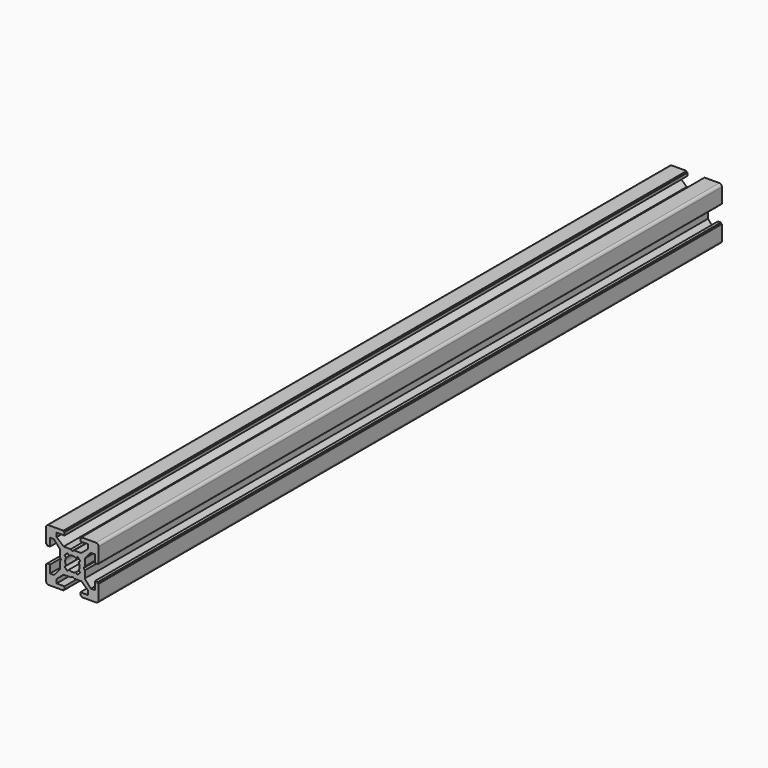
from build123d import *

# Parameters (mm, degrees)
PAD001008_DEPTH       = 296
POCKET021004_DEPTH    = 296
POLARPATTERN002_COUNT = 4
POCKET021005_DEPTH    = 296


with BuildPart() as part:
    # Sketch043 → Pad001008 (new body)
    with BuildSketch(Plane.XZ):
        with BuildLine():
            Line((-9, 10), (9, 10))
            ThreePointArc((10, 9), (9.707107, 9.707107), (9, 10))
            Line((10, 9), (10, -9))
            ThreePointArc((9, -10), (9.707107, -9.707107), (10, -9))
            Line((9, -10), (-9, -10))
            ThreePointArc((-10, -9), (-9.707107, -9.707107), (-9, -10))
            Line((-10, -9), (-10, 9))
            ThreePointArc((-9, 10), (-9.707107, 9.707107), (-10, 9))
        make_face()
    extrude(amount=PAD001008_DEPTH)

    # Sketch042 (on Face10 of Pad001008) → Pocket021004 (cut)
    with BuildSketch(Plane.XZ.offset(296)):
        Polygon((-3.4, 10), (-3.4, 9.6), (-3, 9.6), (-3, 8.5), (-6, 8.5), (-6, 7), (-3.35, 4.7), (-0.65, 4.7), (0, 4.3), (0.65, 4.7), (3.35, 4.7), (6, 7), (6, 8.5), (3, 8.5), (3, 9.6), (3.4, 9.6), (3.4, 10), align=None)
    pocket021004 = extrude(amount=-POCKET021004_DEPTH, mode=Mode.SUBTRACT)

    # PolarPattern002: Pocket021004 ×4 about axis
    polarpattern002_axis = Axis((0, -296, 0), (0, -1, 0))
    for i in range(1, POLARPATTERN002_COUNT):
        add(pocket021004.rotate(polarpattern002_axis, i * 360 / POLARPATTERN002_COUNT), mode=Mode.SUBTRACT)

    # Sketch041 (on Face4 of PolarPattern002) → Pocket021005 (cut)
    with BuildSketch(Plane.XZ.offset(296)):
        with BuildLine():
            ThreePointArc((1.340499, 2.401159), (0, 2.75), (-1.340499, 2.401159))
            Line((-1.944544, 3.005204), (-1.340499, 2.401159))
            Line((-3.005204, 1.944544), (-1.944544, 3.005204))
            Line((-2.401159, 1.340499), (-3.005204, 1.944544))
            ThreePointArc((-2.401159, 1.340499), (-2.75, 0), (-2.401159, -1.340499))
            Line((-3.005204, -1.944544), (-2.401159, -1.340499))
            Line((-1.944544, -3.005204), (-3.005204, -1.944544))
            Line((-1.340499, -2.401159), (-1.944544, -3.005204))
            ThreePointArc((-1.340499, -2.401159), (0, -2.75), (1.340499, -2.401159))
            Line((1.944544, -3.005204), (1.340499, -2.401159))
            Line((3.005204, -1.944544), (1.944544, -3.005204))
            Line((2.401159, -1.340499), (3.005204, -1.944544))
            ThreePointArc((2.401159, -1.340499), (2.75, 0), (2.401159, 1.340499))
            Line((2.401159, 1.340499), (3.005204, 1.944544))
            Line((3.005204, 1.944544), (1.944544, 3.005204))
            Line((1.944544, 3.005204), (1.340499, 2.401159))
        make_face()
    extrude(amount=-POCKET021005_DEPTH, mode=Mode.SUBTRACT)


solid = part.part
